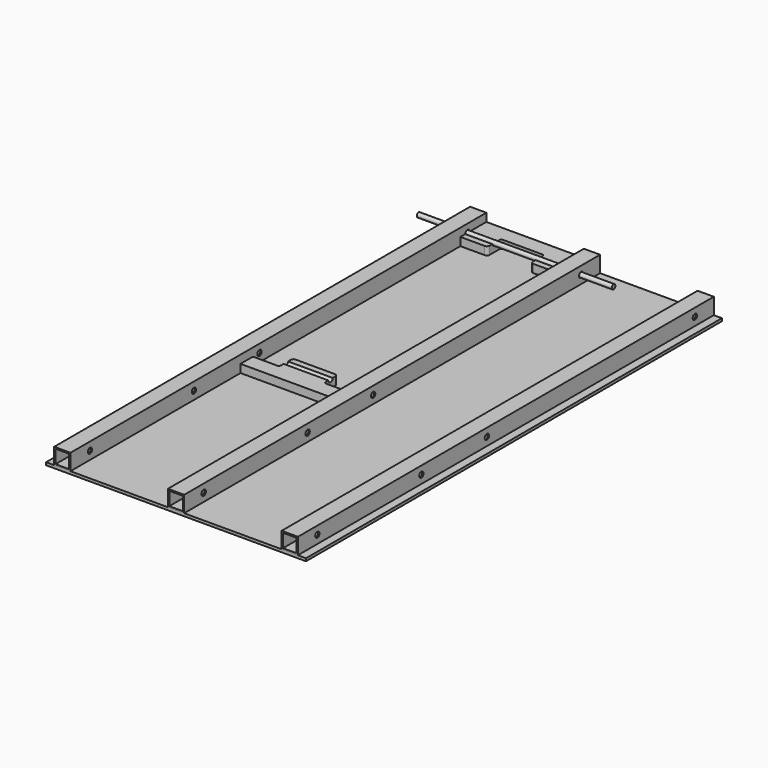
from build123d import *

# Parameters (mm, degrees)
F0_W      = 1219.2
F0_H      = 2438.4
F1_DEPTH  = 12.7
F2_W      = 76.2
F2_H      = 76.2
F2_W_2    = 63.5
F2_H_2    = 63.5
F3_DEPTH  = 1219.2
F5_DEPTH  = 76.2
F6_R      = 12.7
F7_DEPTH  = 609.6
F8_R      = 9.525
F9_R      = 12.7
F11_R     = 10.668
F12_DEPTH = 457.2
F14_W     = 1451.5540599823
F14_H     = 2822.6795196533
F15_DEPTH = 38.101


with BuildPart() as f1:
    # F0 (on Top) → F1 (new body)
    with BuildSketch(Plane.XY):
        Rectangle(F0_W, F0_H)
    extrude(amount=F1_DEPTH)


with BuildPart() as f3:
    # F2 (on Front) → F3 (new body, symmetric)
    with BuildSketch(Plane.XZ):
        with Locations((0, 50.8)):
            Rectangle(F2_W, F2_H)
        with Locations((0, 50.8)):
            Rectangle(F2_W_2, F2_H_2, mode=Mode.SUBTRACT)
    extrude(amount=F3_DEPTH, both=True)


with BuildPart() as f3b:
    # F2 (on Front) → F3, piece 2 (new body, symmetric)
    with BuildSketch(Plane.XZ):
        with Locations((-533.4, 50.8)):
            Rectangle(F2_W, F2_H)
        with Locations((-533.4, 50.8)):
            Rectangle(F2_W_2, F2_H_2, mode=Mode.SUBTRACT)
    extrude(amount=F3_DEPTH, both=True)


with BuildPart() as f3c:
    # F2 (on Front) → F3, piece 3 (new body, symmetric)
    with BuildSketch(Plane.XZ):
        with Locations((533.4, 50.8)):
            Rectangle(F2_W, F2_H)
        with Locations((533.4, 50.8)):
            Rectangle(F2_W_2, F2_H_2, mode=Mode.SUBTRACT)
    extrude(amount=F3_DEPTH, both=True)


with BuildPart() as f5:
    # F4 (on face) → F5 (new body, through all)
    with BuildSketch(Plane.XY.offset(12.7)):
        Polygon((-495.3, 1219.2), (-495.3, 1066.8), (-368.3, 1066.8), (-368.3, 1146.175), (-165.1, 1146.175), (-165.1, 1066.8), (-38.1, 1066.8), (-38.1, 1219.2), align=None)
        Polygon((-495.3, -149.225), (-495.3, -222.25), (-38.1, -222.25), (-38.1, -149.225), (-161.925, -149.225), (-161.925, -69.85), (-371.475, -69.85), (-371.475, -149.225), align=None)
    extrude(amount=F5_DEPTH)


with BuildPart() as f7_tool:
    # F6 (on Right) → F7 (new body, symmetric)
    with BuildSketch(Plane.YZ):
        with Locations((1108.075, 50.8)):
            Circle(F6_R)
        with Locations((-111.125, 50.8)):
            Circle(F6_R)
        with Locations((-495.3, 50.8)):
            Circle(F6_R)
        with Locations((-1104.9, 50.8)):
            Circle(F6_R)
    extrude(amount=F7_DEPTH, both=True)


with BuildPart() as f3_1:
    add(f3.part)

    # F7: cut by f7_tool
    add(f7_tool.part, mode=Mode.SUBTRACT)


with BuildPart() as f3b_1:
    add(f3b.part)

    # F7: cut by f7_tool
    add(f7_tool.part, mode=Mode.SUBTRACT)


with BuildPart() as f3c_1:
    add(f3c.part)

    # F7: cut by f7_tool
    add(f7_tool.part, mode=Mode.SUBTRACT)


with BuildPart() as f5_1:
    add(f5.part)

    # F7: cut by f7_tool
    add(f7_tool.part, mode=Mode.SUBTRACT)

    # F8
    f8_edges = [f5_1.edges().sort_by_distance(p)[0] for p in [
        (-165.1, 1146.175, 50.8),
        (-368.3, 1146.175, 50.8),
        (-371.475, -149.225, 50.8),
        (-161.925, -149.225, 50.8),
    ]]
    fillet(f8_edges, radius=F8_R)

    # F9
    f9_edges = [f5_1.edges().sort_by_distance(p)[0] for p in [
        (-161.925, -69.85, 50.8),
        (-371.475, -69.85, 50.8),
        (-165.1, 1066.8, 50.8),
        (-368.3, 1066.8, 50.8),
    ]]
    fillet(f9_edges, radius=F9_R)

    # F14 (on offset) → F15 (cut, through all)
    with BuildSketch(Plane.XY.offset(50.8)):
        Rectangle(F14_W, F14_H)
    extrude(amount=F15_DEPTH, mode=Mode.SUBTRACT)


with BuildPart() as f12:
    # F11 (on offset) → F12 (new body, symmetric)
    with BuildSketch(Plane.YZ.offset(-266.7)):
        with Locations((1108.075, 50.8)):
            Circle(F11_R)
    extrude(amount=F12_DEPTH, both=True)


solid = Compound([f1.part, f3_1.part, f3b_1.part, f3c_1.part, f5_1.part, f12.part])
